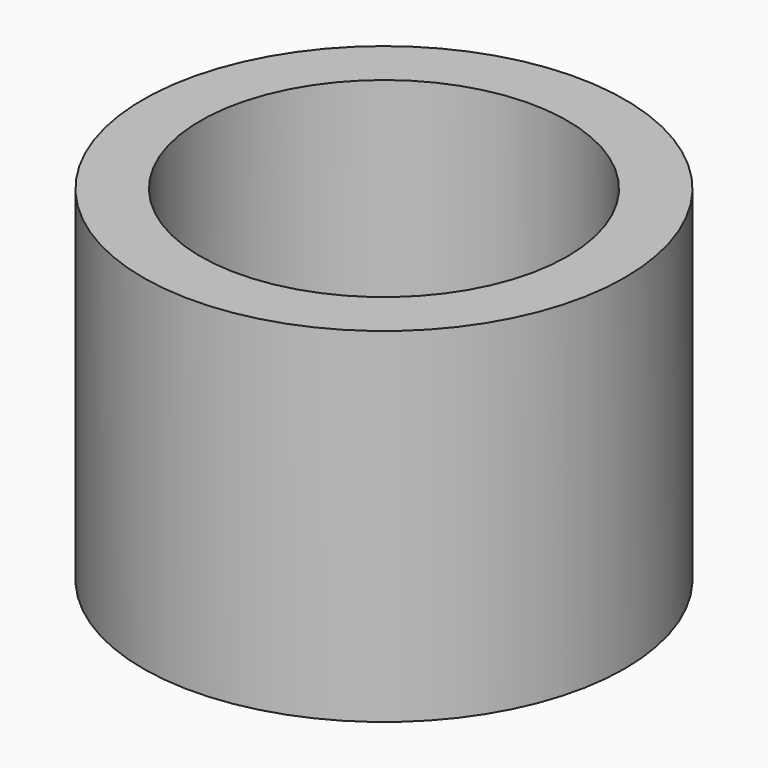
from build123d import *

# Parameters (mm, degrees)
SKETCH_R   = 2.1
SKETCH_R_2 = 1.6
PAD_DEPTH  = 3


with BuildPart() as part:
    # Sketch → Pad (new body)
    with BuildSketch(Plane.XY):
        Circle(SKETCH_R)
        Circle(SKETCH_R_2, mode=Mode.SUBTRACT)
    extrude(amount=PAD_DEPTH)


solid = part.part
